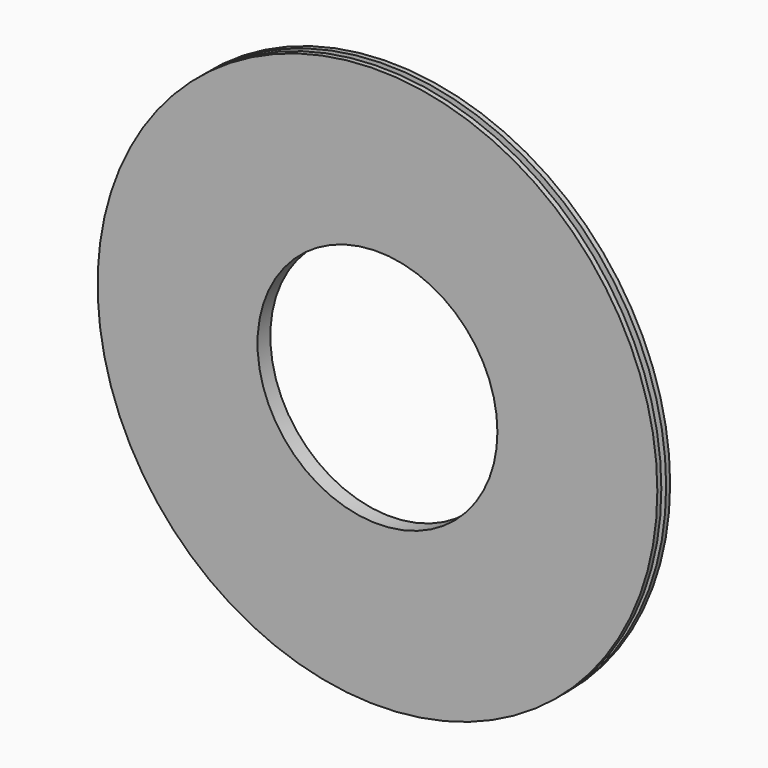
from build123d import *


with BuildPart() as part:
    # Sketch → Revolution (revolve)
    with BuildSketch(Plane.XY):
        Polygon((70, 0), (70, 1.25), (65, 1.25), (65, 2.75), (70, 2.75), (70, 4), (30, 4), (30, 0), align=None)
    revolve(axis=Axis((0, 0, 0), (0, 1, 0)))


solid = part.part
